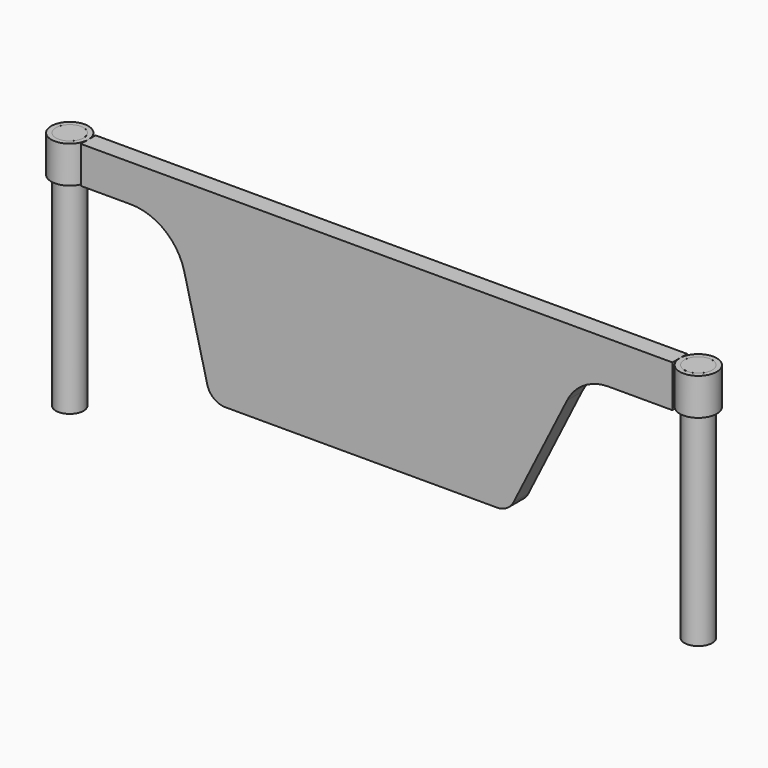
from build123d import *

# Parameters (mm, degrees)
F1_DEPTH = 12.7
F2_R     = 12.7
F2_R_2   = 9.525
F3_DEPTH = 25.4
F4_R     = 9.5123
F5_DEPTH = 165.1


with BuildPart() as f1:
    # F0 (on Front) → F1 (new body)
    with BuildSketch(Plane.XZ):
        with BuildLine():
            Line((-521.497744, 149.86705), (-487.354465, 149.86705))
            ThreePointArc((-487.354465, 149.86705), (-463.90726, 141.797678), (-450.392036, 121.007658))
            Line((-450.392036, 121.007658), (-434.611833, 57.886848))
            ThreePointArc((-434.611833, 57.886848), (-430.106759, 50.956841), (-422.291024, 48.26705))
            Line((-422.291024, 48.26705), (-235.570808, 48.26705))
            ThreePointArc((-235.570808, 48.26705), (-228.894023, 50.163785), (-224.211582, 55.287438))
            Line((-224.211582, 55.287438), (-187.452357, 128.805888))
            ThreePointArc((-187.452357, 128.805888), (-175.746256, 141.61502), (-159.054294, 146.356857))
            Line((-159.054294, 146.356857), (-115.097744, 146.356857))
            Line((-115.097744, 146.356857), (-115.097744, 175.26705))
            Line((-115.097744, 175.26705), (-521.497744, 175.26705))
            Line((-521.497744, 175.26705), (-521.497744, 149.86705))
        make_face()
    extrude(amount=F1_DEPTH)


with BuildPart() as f3:
    # F2 (on face) → F3 (new body)
    with BuildSketch(Plane.XY.offset(175.26705)):
        with Locations((-102.397744, -6.35)):
            Circle(F2_R)
        with Locations((-102.397744, -6.35)):
            Circle(F2_R_2, mode=Mode.SUBTRACT)
        with Locations((-534.197744, -6.35)):
            Circle(F2_R)
        with Locations((-534.197744, -6.35)):
            Circle(F2_R_2, mode=Mode.SUBTRACT)
    extrude(amount=-F3_DEPTH)


with BuildPart() as f5:
    # F4 (on face) → F5 (new body)
    with BuildSketch(Plane.XY.offset(175.26705)):
        with Locations((-102.397744, -6.35)):
            Circle(F4_R)
        with Locations((-534.197744, -6.35)):
            Circle(F4_R)
    extrude(amount=-F5_DEPTH)


solid = Compound([f1.part, f3.part, f5.part])
